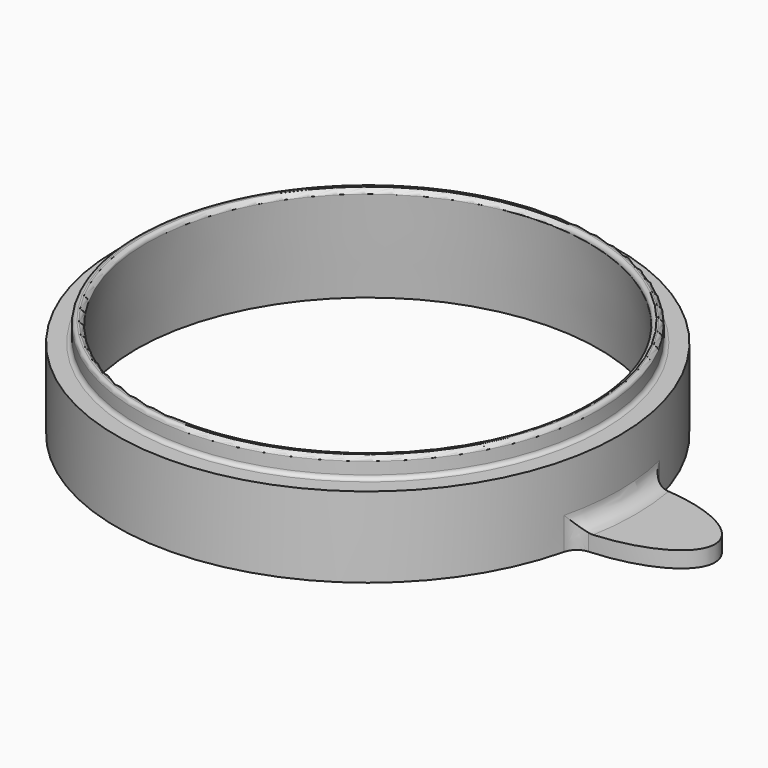
from build123d import *

# Parameters (mm, degrees)
SKETCH_R        = 62.5
PAD_DEPTH       = 20
SKETCH001_R     = 57.5
POCKET_DEPTH    = 20.001
SKETCH002_R     = 57.5
PAD001_DEPTH    = 25
SKETCH003_R     = 55
POCKET001_DEPTH = 25.001
FILLET_R        = 1
PAD002_DEPTH    = 4
FILLET001_R     = 4


with BuildPart() as part:
    # Sketch → Pad (new body)
    with BuildSketch(Plane.XY):
        Circle(SKETCH_R)
    extrude(amount=PAD_DEPTH)

    # Sketch001 (on Face3 of Pad) → Pocket (cut, through all)
    with BuildSketch(Plane.XY.offset(20)):
        Circle(SKETCH001_R)
    extrude(amount=-POCKET_DEPTH, mode=Mode.SUBTRACT)

    # Sketch002 → Pad001 (join)
    with BuildSketch(Plane.XY):
        Circle(SKETCH002_R)
    extrude(amount=PAD001_DEPTH)

    # Sketch003 (on Face6 of Pad001) → Pocket001 (cut, through all)
    with BuildSketch(Plane.XY.offset(25)):
        Circle(SKETCH003_R)
    extrude(amount=-POCKET001_DEPTH, mode=Mode.SUBTRACT)

    # Sketch004 → Groove (revolve, cut)
    with BuildSketch(Plane.XZ):
        Polygon((-57.5, 0), (-55, 0), (-55, 25), align=None)
    revolve(axis=Axis((0, 0, 0), (0, 0, 1)), mode=Mode.SUBTRACT)

    # Fillet
    fillet_edges = [part.edges().sort_by_distance(p)[0] for p in [
        (-57.5, 0, 25),
        (0, 55, 25),
        (0, -55, 25),
        (-57.5, 0, 20),
        (57.5, 0, 22.5),
    ]]
    fillet(fillet_edges, radius=FILLET_R)

    # Sketch005 → Pad002 (join)
    with BuildSketch(Plane.XY):
        with BuildLine():
            add(Edge.make_bspline(
                [(61.361633, -11.874342), (86.361633, -11.874342), (86.361633, 0), (86.361633, 11.874342), (61.361633, 11.874342)],
                knots=[4.712389, 4.712389, 4.712389, 6.283185, 6.283185, 7.853982, 7.853982, 7.853982], degree=2, weights=[1, 0.707107, 1, 0.707107, 1]))
            ThreePointArc((61.361633, 11.874342), (62.5, 0), (61.361633, -11.874342))
        make_face()
    extrude(amount=PAD002_DEPTH)

    # Fillet001
    fillet001_edges = [part.edges().sort_by_distance(p)[0] for p in [
        (61.361633, -11.874342, 2),
        (62.214757, -5.964392, 4),
        (62.214757, 5.964392, 4),
        (61.361633, 11.874342, 2),
    ]]
    fillet(fillet001_edges, radius=FILLET001_R)


solid = part.part
